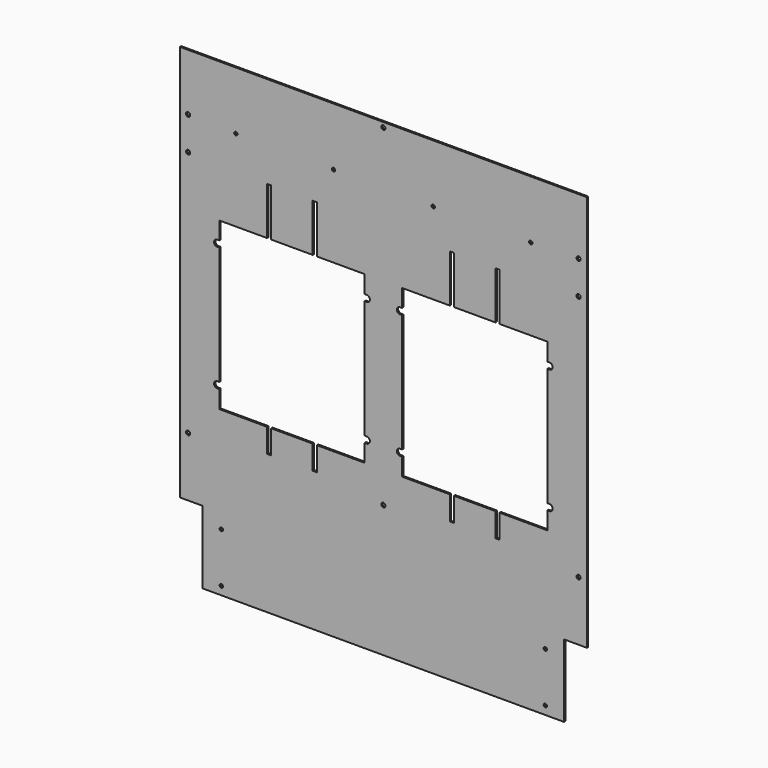
from build123d import *

# Parameters (mm, degrees)
F0_W     = 622.3
F0_H     = 717.55
F0_R     = 2.579688
F0_R_2   = 3.175
F1_DEPTH = 1.27
F2_W     = 34.925
F2_H     = 111.125
F2_W_2   = 6.35
F2_H_2   = 73.025
F2_H_3   = 36.5125
F2_R     = 2.579688
F3_DEPTH = 2.541


with BuildPart() as f1:
    # F0 (on Front) → F1 (new body, symmetric)
    with BuildSketch(Plane.XZ):
        Rectangle(F0_W, F0_H)
        with Locations((-247.65, -346.075)):
            Circle(F0_R, mode=Mode.SUBTRACT)
        with Locations((-247.65, -269.875)):
            Circle(F0_R, mode=Mode.SUBTRACT)
        with Locations((-298.45, -156.718)):
            Circle(F0_R_2, mode=Mode.SUBTRACT)
        with Locations((247.65, -346.075)):
            Circle(F0_R, mode=Mode.SUBTRACT)
        with Locations((247.65, -269.875)):
            Circle(F0_R, mode=Mode.SUBTRACT)
        with Locations((0, -156.718)):
            Circle(F0_R_2, mode=Mode.SUBTRACT)
        with Locations((298.45, -156.718)):
            Circle(F0_R_2, mode=Mode.SUBTRACT)
        with BuildLine():
            Line((-250.825, 117.856), (-250.825, 144.78))
            Line((-250.825, 144.78), (-28.575, 144.78))
            Line((-28.575, 144.78), (-28.575, 117.856))
            Line((-28.575, 117.856), (-25.4, 117.856))
            ThreePointArc((-25.4, 117.856), (-20.574, 113.03), (-25.4, 108.204))
            Line((-25.4, 108.204), (-28.575, 108.204))
            Line((-28.575, 108.204), (-28.575, -72.644))
            Line((-28.575, -72.644), (-25.4, -72.644))
            ThreePointArc((-25.4, -72.644), (-20.574, -77.47), (-25.4, -82.296))
            Line((-25.4, -82.296), (-28.575, -82.296))
            Line((-28.575, -82.296), (-28.575, -109.22))
            Line((-28.575, -109.22), (-250.825, -109.22))
            Line((-250.825, -109.22), (-250.825, -82.296))
            Line((-250.825, -82.296), (-254, -82.296))
            ThreePointArc((-254, -82.296), (-258.826, -77.47), (-254, -72.644))
            Line((-254, -72.644), (-250.825, -72.644))
            Line((-250.825, -72.644), (-250.825, 108.204))
            Line((-250.825, 108.204), (-254, 108.204))
            ThreePointArc((-254, 108.204), (-258.826, 113.03), (-254, 117.856))
            Line((-254, 117.856), (-250.825, 117.856))
        make_face(mode=Mode.SUBTRACT)
        with Locations((-298.45, 221.107)):
            Circle(F0_R_2, mode=Mode.SUBTRACT)
        with Locations((-298.45, 271.907)):
            Circle(F0_R_2, mode=Mode.SUBTRACT)
        with BuildLine():
            Line((28.575, -109.22), (28.575, -82.296))
            Line((28.575, -82.296), (25.4, -82.296))
            ThreePointArc((25.4, -82.296), (20.574, -77.47), (25.4, -72.644))
            Line((25.4, -72.644), (28.575, -72.644))
            Line((28.575, -72.644), (28.575, 108.204))
            Line((28.575, 108.204), (25.4, 108.204))
            ThreePointArc((25.4, 108.204), (20.574, 113.03), (25.4, 117.856))
            Line((25.4, 117.856), (28.575, 117.856))
            Line((28.575, 117.856), (28.575, 144.78))
            Line((28.575, 144.78), (250.825, 144.78))
            Line((250.825, 144.78), (250.825, 117.856))
            Line((250.825, 117.856), (254, 117.856))
            ThreePointArc((254, 117.856), (258.826, 113.03), (254, 108.204))
            Line((254, 108.204), (250.825, 108.204))
            Line((250.825, 108.204), (250.825, -72.644))
            Line((250.825, -72.644), (254, -72.644))
            ThreePointArc((254, -72.644), (258.826, -77.47), (254, -82.296))
            Line((254, -82.296), (250.825, -82.296))
            Line((250.825, -82.296), (250.825, -109.22))
            Line((250.825, -109.22), (28.575, -109.22))
        make_face(mode=Mode.SUBTRACT)
        with Locations((0, 351.282)):
            Circle(F0_R_2, mode=Mode.SUBTRACT)
        with Locations((298.45, 221.107)):
            Circle(F0_R_2, mode=Mode.SUBTRACT)
        with Locations((298.45, 271.907)):
            Circle(F0_R_2, mode=Mode.SUBTRACT)
    extrude(amount=F1_DEPTH, both=True)

    # F2 (on face) → F3 (cut, through all)
    with BuildSketch(Plane.XZ.offset(1.27)):
        with Locations((-293.6875, -303.2125)):
            Rectangle(F2_W, F2_H)
        with Locations((293.6875, -303.2125)):
            Rectangle(F2_W, F2_H)
        with Locations((-174.625, 181.2925)):
            Rectangle(F2_W_2, F2_H_2)
        with Locations((-104.775, 181.2925)):
            Rectangle(F2_W_2, F2_H_2)
        with Locations((-104.775, -127.47625)):
            Rectangle(F2_W_2, F2_H_3)
        with Locations((-174.625, -127.47625)):
            Rectangle(F2_W_2, F2_H_3)
        with Locations((104.775, 181.2925)):
            Rectangle(F2_W_2, F2_H_2)
        with Locations((174.625, -127.47625)):
            Rectangle(F2_W_2, F2_H_3)
        with Locations((174.625, 181.2925)):
            Rectangle(F2_W_2, F2_H_2)
        with Locations((104.775, -127.47625)):
            Rectangle(F2_W_2, F2_H_3)
        with Locations((225.425, 269.875)):
            Circle(F2_R)
        with Locations((-225.425, 269.875)):
            Circle(F2_R)
        with Locations((76.2, 269.875)):
            Circle(F2_R)
        with Locations((-76.2, 269.875)):
            Circle(F2_R)
    extrude(amount=-F3_DEPTH, mode=Mode.SUBTRACT)


solid = f1.part
